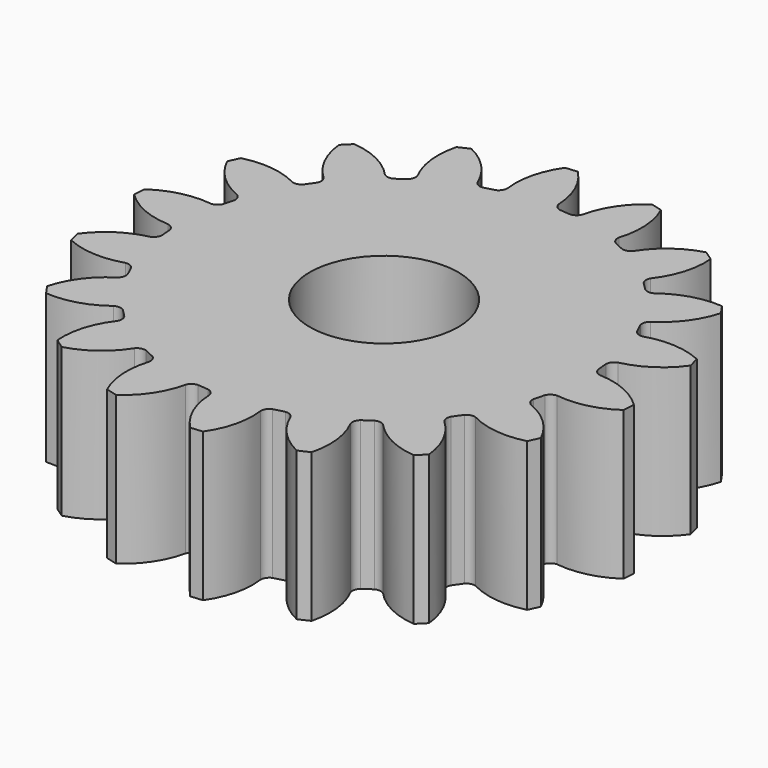
from build123d import *

# Parameters (mm, degrees)
F0_R     = 5
F1_DEPTH = 10


with BuildPart() as f1:
    # F0 (on Top) → F1 (new body)
    with BuildSketch(Plane.XY):
        with BuildLine():
            ThreePointArc((0.834247, 13.754724), (0.539473, 13.922611), (0.384061, 14.224148))
            ThreePointArc((0.384061, 14.224148), (-0.053041, 16.126356), (-1.146638, 17.742988))
            Line((-1.146638, 17.742988), (-1.950006, 17.672744))
            ThreePointArc((-1.950006, 17.672744), (-2.74627, 15.891587), (-2.846993, 13.943148))
            ThreePointArc((-2.846993, 13.943148), (-2.94723, 13.618388), (-3.20868, 13.401223))
            Line((-3.20868, 13.401223), (-3.920457, 13.210542))
            ThreePointArc((-3.920457, 13.210542), (-4.254874, 13.267486), (-4.504046, 13.497684))
            ThreePointArc((-4.504046, 13.497684), (-5.565381, 15.135677), (-7.145946, 16.280782))
            Line((-7.145946, 16.280782), (-7.876841, 15.940006))
            ThreePointArc((-7.876841, 15.940006), (-8.015892, 13.993927), (-7.444136, 12.128545))
            ThreePointArc((-7.444136, 12.128545), (-7.427254, 11.789086), (-7.598661, 11.495597))
            Line((-7.598661, 11.495597), (-8.202296, 11.072974))
            ThreePointArc((-8.202296, 11.072974), (-8.536021, 11.012106), (-8.848898, 11.1432))
            ThreePointArc((-8.848898, 11.1432), (-10.406453, 12.319412), (-12.283348, 12.854873))
            Line((-12.283348, 12.854873), (-12.853612, 12.284668))
            ThreePointArc((-12.853612, 12.284668), (-12.31868, 10.408393), (-11.143406, 8.85106))
            ThreePointArc((-11.143406, 8.85106), (-11.01144, 8.537847), (-11.072132, 8.203432))
            Line((-11.072132, 8.203432), (-11.494817, 7.599841))
            ThreePointArc((-11.494817, 7.599841), (-11.787598, 7.428503), (-12.126443, 7.444681))
            ThreePointArc((-12.126443, 7.444681), (-13.992354, 8.017243), (-15.939197, 7.878477))
            Line((-15.939197, 7.878477), (-16.280048, 7.147617))
            ThreePointArc((-16.280048, 7.147617), (-15.135653, 5.567454), (-13.498617, 4.506006))
            ThreePointArc((-13.498617, 4.506006), (-13.267485, 4.256818), (-13.21014, 3.921813))
            Line((-13.21014, 3.921813), (-13.400893, 3.210056))
            ThreePointArc((-13.400893, 3.210056), (-13.617417, 2.948914), (-13.94136, 2.848224))
            ThreePointArc((-13.94136, 2.848224), (-15.890571, 2.748077), (-17.672544, 1.95182))
            Line((-17.672544, 1.95182), (-17.74287, 1.148459))
            ThreePointArc((-17.74287, 1.148459), (-16.127043, 0.054997), (-14.225696, -0.382538))
            ThreePointArc((-14.225696, -0.382538), (-13.923275, -0.537647), (-13.75481, -0.832836))
            Line((-13.75481, -0.832836), (-13.690624, -1.566909))
            ThreePointArc((-13.690624, -1.566909), (-13.804774, -1.886358), (-14.074743, -2.091771))
            ThreePointArc((-14.074743, -2.091771), (-15.87215, -2.852547), (-17.274321, -4.210255))
            Line((-17.274321, -4.210255), (-17.06564, -4.989221))
            ThreePointArc((-17.06564, -4.989221), (-15.173273, -5.464093), (-13.236946, -5.224943))
            ThreePointArc((-13.236946, -5.224943), (-12.899713, -5.267264), (-12.640446, -5.487031))
            Line((-12.640446, -5.487031), (-12.329064, -6.154883))
            ThreePointArc((-12.329064, -6.154883), (-12.327072, -6.494108), (-12.510505, -6.779467))
            ThreePointArc((-12.510505, -6.779467), (-13.939314, -8.109113), (-14.79256, -9.864511))
            Line((-14.79256, -9.864511), (-14.330042, -10.525127))
            ThreePointArc((-14.330042, -10.525127), (-12.389383, -10.324133), (-10.651624, -9.437142))
            ThreePointArc((-10.651624, -9.437142), (-10.320255, -9.36157), (-10.001459, -9.47941))
            Line((-10.001459, -9.47941), (-9.480437, -10.000486))
            ThreePointArc((-9.480437, -10.000486), (-9.362542, -10.318572), (-9.437314, -10.64946))
            ThreePointArc((-9.437314, -10.64946), (-10.32519, -12.387599), (-10.526598, -14.328962))
            Line((-10.526598, -14.328962), (-9.86603, -14.791547))
            ThreePointArc((-9.86603, -14.791547), (-8.11115, -13.93893), (-6.78156, -12.511083))
            ThreePointArc((-6.78156, -12.511083), (-6.496022, -12.326734), (-6.156148, -12.328432))
            Line((-6.156148, -12.328432), (-5.488329, -12.639883))
            ThreePointArc((-5.488329, -12.639883), (-5.268753, -12.898464), (-5.225845, -13.234971))
            ThreePointArc((-5.225845, -13.234971), (-5.465697, -15.171959), (-4.990972, -17.065128))
            Line((-4.990972, -17.065128), (-4.212028, -17.273888))
            ThreePointArc((-4.212028, -17.273888), (-2.854593, -15.872486), (-2.093539, -14.076003))
            ThreePointArc((-2.093539, -14.076003), (-1.888272, -13.805111), (-1.568315, -13.690463))
            Line((-1.568315, -13.690463), (-0.834247, -13.754724))
            ThreePointArc((-0.834247, -13.754724), (-0.539473, -13.922611), (-0.384061, -14.224148))
            ThreePointArc((-0.384061, -14.224148), (0.053041, -16.126356), (1.146638, -17.742988))
            Line((1.146638, -17.742988), (1.950006, -17.672744))
            ThreePointArc((1.950006, -17.672744), (2.74627, -15.891587), (2.846993, -13.943148))
            ThreePointArc((2.846993, -13.943148), (2.94723, -13.618388), (3.20868, -13.401223))
            Line((3.20868, -13.401223), (3.920457, -13.210542))
            ThreePointArc((3.920457, -13.210542), (4.254874, -13.267486), (4.504046, -13.497684))
            ThreePointArc((4.504046, -13.497684), (5.565381, -15.135677), (7.145946, -16.280782))
            Line((7.145946, -16.280782), (7.876841, -15.940006))
            ThreePointArc((7.876841, -15.940006), (8.015892, -13.993927), (7.444136, -12.128545))
            ThreePointArc((7.444136, -12.128545), (7.427254, -11.789086), (7.598661, -11.495597))
            Line((7.598661, -11.495597), (8.202296, -11.072974))
            ThreePointArc((8.202296, -11.072974), (8.536021, -11.012106), (8.848898, -11.1432))
            ThreePointArc((8.848898, -11.1432), (10.406453, -12.319412), (12.283348, -12.854873))
            Line((12.283348, -12.854873), (12.853612, -12.284668))
            ThreePointArc((12.853612, -12.284668), (12.31868, -10.408393), (11.143406, -8.85106))
            ThreePointArc((11.143406, -8.85106), (11.01144, -8.537847), (11.072132, -8.203432))
            Line((11.072132, -8.203432), (11.494817, -7.599841))
            ThreePointArc((11.494817, -7.599841), (11.787598, -7.428503), (12.126443, -7.444681))
            ThreePointArc((12.126443, -7.444681), (13.992354, -8.017243), (15.939197, -7.878477))
            Line((15.939197, -7.878477), (16.280048, -7.147617))
            ThreePointArc((16.280048, -7.147617), (15.135653, -5.567454), (13.498617, -4.506006))
            ThreePointArc((13.498617, -4.506006), (13.267485, -4.256818), (13.21014, -3.921813))
            Line((13.21014, -3.921813), (13.400893, -3.210056))
            ThreePointArc((13.400893, -3.210056), (13.617417, -2.948914), (13.94136, -2.848224))
            ThreePointArc((13.94136, -2.848224), (15.890571, -2.748077), (17.672544, -1.95182))
            Line((17.672544, -1.95182), (17.74287, -1.148459))
            ThreePointArc((17.74287, -1.148459), (16.127043, -0.054997), (14.225696, 0.382538))
            ThreePointArc((14.225696, 0.382538), (13.923275, 0.537647), (13.75481, 0.832836))
            Line((13.75481, 0.832836), (13.690624, 1.566909))
            ThreePointArc((13.690624, 1.566909), (13.804774, 1.886358), (14.074743, 2.091771))
            ThreePointArc((14.074743, 2.091771), (15.87215, 2.852547), (17.274321, 4.210255))
            Line((17.274321, 4.210255), (17.06564, 4.989221))
            ThreePointArc((17.06564, 4.989221), (15.173273, 5.464093), (13.236946, 5.224943))
            ThreePointArc((13.236946, 5.224943), (12.899713, 5.267264), (12.640446, 5.487031))
            Line((12.640446, 5.487031), (12.329064, 6.154883))
            ThreePointArc((12.329064, 6.154883), (12.327072, 6.494108), (12.510505, 6.779467))
            ThreePointArc((12.510505, 6.779467), (13.939314, 8.109113), (14.79256, 9.864511))
            Line((14.79256, 9.864511), (14.330042, 10.525127))
            ThreePointArc((14.330042, 10.525127), (12.389383, 10.324133), (10.651624, 9.437142))
            ThreePointArc((10.651624, 9.437142), (10.320255, 9.36157), (10.001459, 9.47941))
            Line((10.001459, 9.47941), (9.480437, 10.000486))
            ThreePointArc((9.480437, 10.000486), (9.362542, 10.318572), (9.437314, 10.64946))
            ThreePointArc((9.437314, 10.64946), (10.32519, 12.387599), (10.526598, 14.328962))
            Line((10.526598, 14.328962), (9.86603, 14.791547))
            ThreePointArc((9.86603, 14.791547), (8.11115, 13.93893), (6.78156, 12.511083))
            ThreePointArc((6.78156, 12.511083), (6.496022, 12.326734), (6.156148, 12.328432))
            Line((6.156148, 12.328432), (5.488329, 12.639883))
            ThreePointArc((5.488329, 12.639883), (5.268753, 12.898464), (5.225845, 13.234971))
            ThreePointArc((5.225845, 13.234971), (5.465697, 15.171959), (4.990972, 17.065128))
            Line((4.990972, 17.065128), (4.212028, 17.273888))
            ThreePointArc((4.212028, 17.273888), (2.854593, 15.872486), (2.093539, 14.076003))
            ThreePointArc((2.093539, 14.076003), (1.888272, 13.805111), (1.568315, 13.690463))
            Line((1.568315, 13.690463), (0.834247, 13.754724))
        make_face()
        Circle(F0_R, mode=Mode.SUBTRACT)
    extrude(amount=F1_DEPTH)


solid = f1.part
